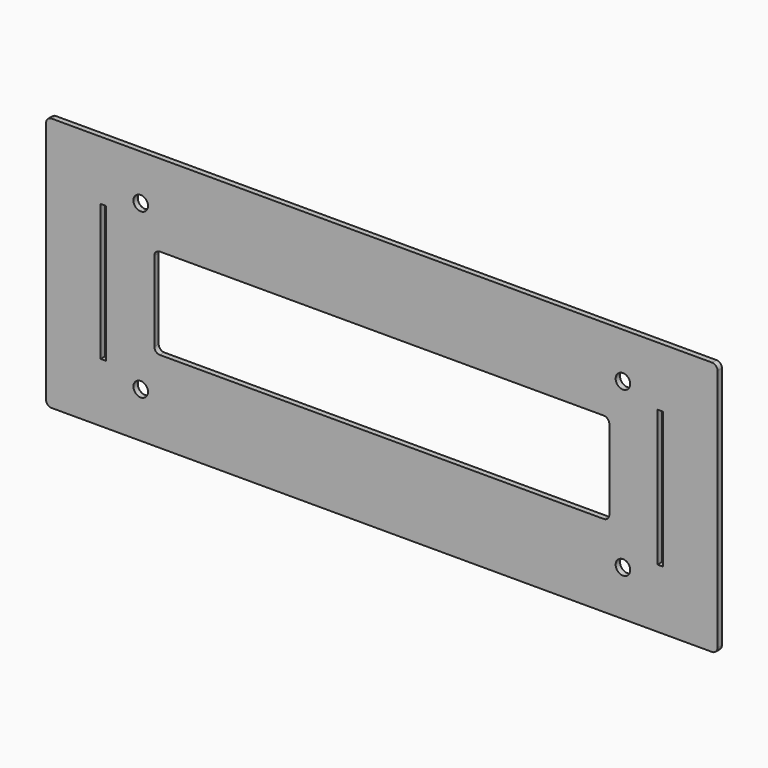
from build123d import *

# Parameters (mm, degrees)
F0_R     = 4
F0_W     = 3
F0_H     = 75
F1_DEPTH = 3


with BuildPart() as f1:
    # F0 (on Front) → F1 (new body)
    with BuildSketch(Plane.XZ):
        with BuildLine():
            Line((-181.5, -70), (181.5, -70))
            ThreePointArc((181.5, -70), (183.62132, -69.12132), (184.5, -67))
            Line((184.5, -67), (184.5, 67))
            ThreePointArc((184.5, 67), (183.62132, 69.12132), (181.5, 70))
            Line((181.5, 70), (-181.5, 70))
            ThreePointArc((-181.5, 70), (-183.62132, 69.12132), (-184.5, 67))
            Line((-184.5, 67), (-184.5, -67))
            ThreePointArc((-184.5, -67), (-183.62132, -69.12132), (-181.5, -70))
        make_face()
        with Locations((-132.5, -45)):
            Circle(F0_R, mode=Mode.SUBTRACT)
        with Locations((132.5, -45)):
            Circle(F0_R, mode=Mode.SUBTRACT)
        with Locations((-153, 0)):
            Rectangle(F0_W, F0_H, mode=Mode.SUBTRACT)
        with Locations((-132.5, 45)):
            Circle(F0_R, mode=Mode.SUBTRACT)
        with BuildLine():
            ThreePointArc((125, -22), (124.12132, -24.12132), (122, -25))
            Line((122, -25), (-122, -25))
            ThreePointArc((-122, -25), (-124.12132, -24.12132), (-125, -22))
            Line((-125, -22), (-125, 22))
            ThreePointArc((-125, 22), (-124.12132, 24.12132), (-122, 25))
            Line((-122, 25), (122, 25))
            ThreePointArc((122, 25), (124.12132, 24.12132), (125, 22))
            Line((125, 22), (125, -22))
        make_face(mode=Mode.SUBTRACT)
        with Locations((153, 0)):
            Rectangle(F0_W, F0_H, mode=Mode.SUBTRACT)
        with Locations((132.5, 45)):
            Circle(F0_R, mode=Mode.SUBTRACT)
    extrude(amount=F1_DEPTH)


solid = f1.part
